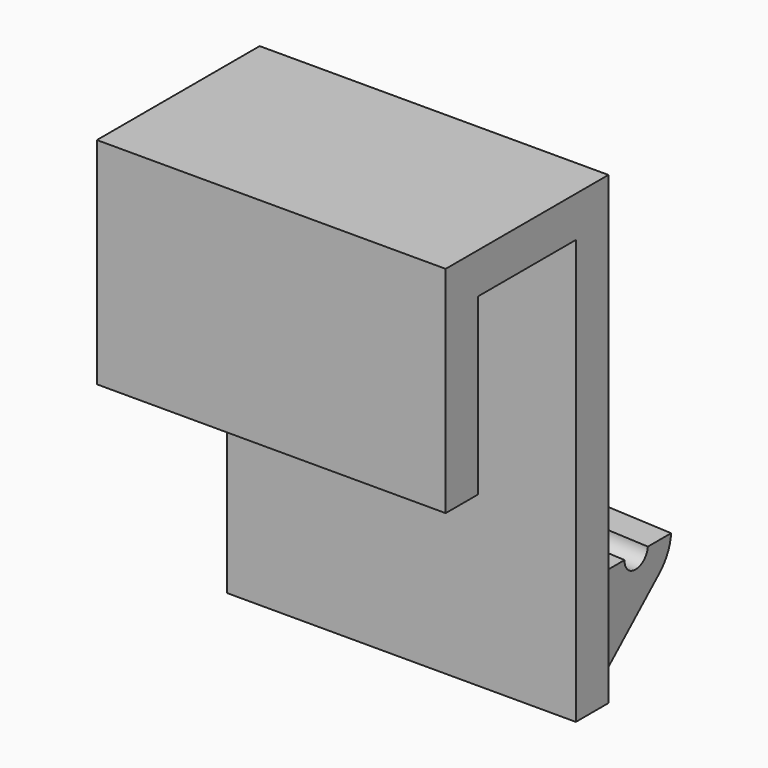
from build123d import *

# Parameters (mm, degrees)
F1_DEPTH = 19.05
F4_ANGLE = 6


with BuildPart() as f1:
    # F0 (on Right) → F1 (new body, symmetric)
    with BuildSketch(Plane.YZ):
        Polygon((0, 19.05), (0, 0), (4.445, 0), (4.445, 19.05), (17.78, 19.05), (17.78, -27.305), (22.225, -27.305), (22.225, 19.05), (22.225, 23.495), (17.78, 23.495), (4.445, 23.495), (0, 23.495), align=None)
    extrude(amount=F1_DEPTH, both=True)


with BuildPart() as f4:
    # F2 (on Right) → F4 (revolve, symmetric)
    with BuildSketch(Plane.YZ) as f4_sk:
        with BuildLine():
            ThreePointArc((28.575, -14.605), (26.9875, -16.1925), (25.4, -14.605))
            Line((25.4, -14.605), (22.225, -14.605))
            Line((22.225, -14.605), (22.225, -26.035))
            Line((22.225, -26.035), (30.340976, -17.986657))
            ThreePointArc((30.340976, -17.986657), (31.383654, -16.436731), (31.75, -14.605))
            Line((31.75, -14.605), (28.575, -14.605))
        make_face()
    revolve(axis=Axis((0, 100.546518, -363.855), (0, -1, 0)), revolution_arc=F4_ANGLE / 2)
    revolve(f4_sk.sketch, axis=Axis((0, 100.546518, -363.855), (0, 1, 0)), revolution_arc=F4_ANGLE / 2)


solid = Compound([f1.part, f4.part])
